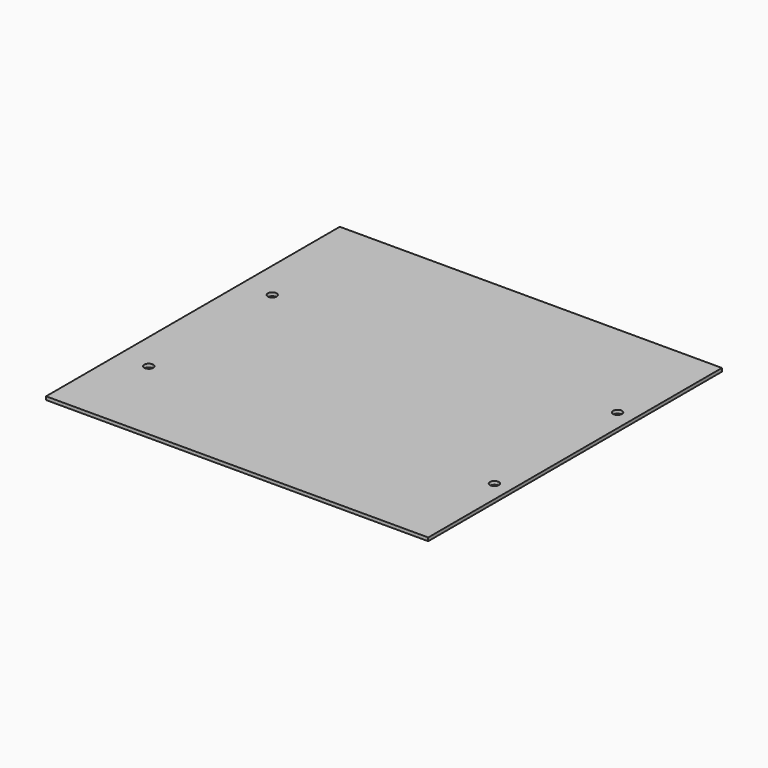
from build123d import *

# Parameters (mm, degrees)
F1_DEPTH = 0.508


with BuildPart() as f1:
    # F0 (on Top) → F1 (new body)
    with BuildSketch(Plane.XY):
        Polygon((0, 55.88), (0, 0), (4.699, 0), (55.638228, 0), (58.166, 0), (58.166, 55.88), align=None)
        with BuildLine():
            ThreePointArc((5.3721, 13.6652), (5.174954, 13.189246), (4.699, 12.9921))
            ThreePointArc((4.699, 12.9921), (4.0259, 13.6652), (4.699, 14.3383))
            ThreePointArc((4.699, 14.3383), (5.174954, 14.141154), (5.3721, 13.6652))
        make_face(mode=Mode.SUBTRACT)
        with BuildLine():
            ThreePointArc((56.311328, 15.748), (56.114181, 15.272046), (55.638228, 15.0749))
            ThreePointArc((55.638228, 15.0749), (54.965128, 15.748), (55.638228, 16.4211))
            ThreePointArc((55.638228, 16.4211), (56.114181, 16.223954), (56.311328, 15.748))
        make_face(mode=Mode.SUBTRACT)
        with BuildLine():
            ThreePointArc((5.3721, 37.159625), (5.174954, 36.683672), (4.699, 36.486525))
            ThreePointArc((4.699, 36.486525), (4.223046, 37.635579), (5.3721, 37.159625))
        make_face(mode=Mode.SUBTRACT)
        with BuildLine():
            ThreePointArc((56.311328, 39.1922), (56.114181, 38.716246), (55.638228, 38.5191))
            ThreePointArc((55.638228, 38.5191), (55.162274, 39.668154), (56.311328, 39.1922))
        make_face(mode=Mode.SUBTRACT)
    extrude(amount=F1_DEPTH)


solid = f1.part
